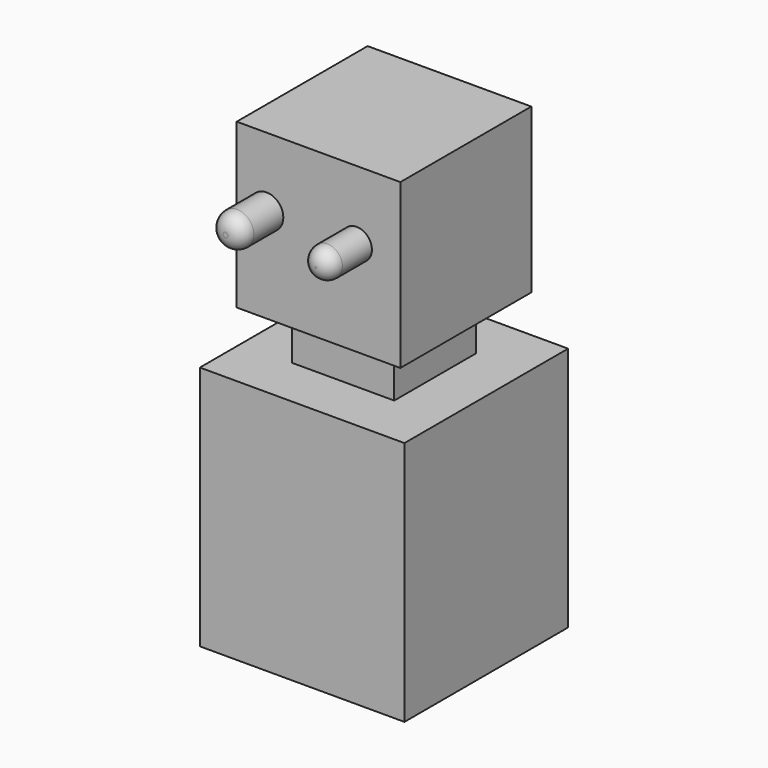
from build123d import *

# Parameters (mm, degrees)
F0_W     = 100
F0_H     = 100
F1_DEPTH = 120
F2_W     = 50
F2_H     = 50
F3_DEPTH = 50
F5_W     = 80
F5_H     = 80
F6_DEPTH = 80
F8_R     = 8.202105
F8_R_2   = 7.419571
F9_DEPTH = 25
F10_R    = 7.001219


with BuildPart() as f1:
    # F0 (on Top) → F1 (new body)
    with BuildSketch(Plane.XY):
        Rectangle(F0_W, F0_H)
    extrude(amount=F1_DEPTH)

    # F2 (on face) → F3 (join)
    with BuildSketch(Plane.XY.offset(120)):
        Rectangle(F2_W, F2_H)
    extrude(amount=F3_DEPTH)


with BuildPart() as f6:
    # F5 (on offset) → F6 (new body)
    with BuildSketch(Plane.XY.offset(145)):
        Rectangle(F5_W, F5_H)
    extrude(amount=F6_DEPTH)

    # F7: cut F1
    add(f1.part, mode=Mode.SUBTRACT)


with BuildPart() as f9:
    # F8 (on face) → F9 (new body)
    with BuildSketch(Plane.XZ.offset(40)):
        with Locations((-25.427306, 191.110611)):
            Circle(F8_R)
        with Locations((18.668158, 191.393271)):
            Circle(F8_R_2)
    extrude(amount=F9_DEPTH)

    # F10
    f10_edges = [f9.edges().sort_by_distance(p)[0] for p in [
        (-33.629411, -65, 191.110611),
        (11.248587, -65, 191.393271),
    ]]
    fillet(f10_edges, radius=F10_R)


solid = Compound([f1.part, f6.part, f9.part])
